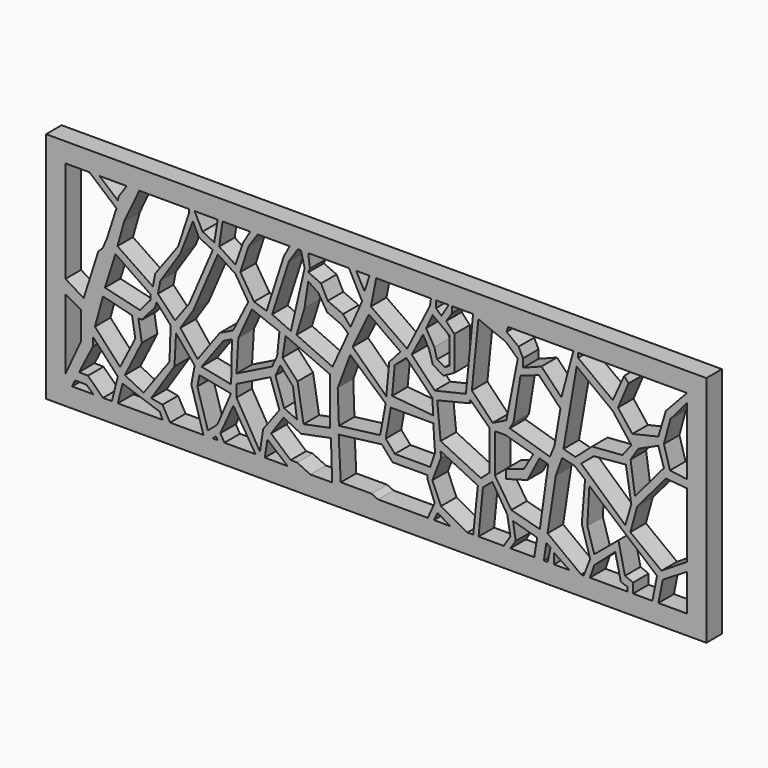
from build123d import *

# Parameters (mm, degrees)
F0_W     = 169.9999902
F0_H     = 60
F1_DEPTH = 5


with BuildPart() as f1:
    # F0 (on Front) → F1 (new body)
    with BuildSketch(Plane.XZ):
        with Locations((50.4281632602, -78.6471441388)):
            Rectangle(F0_W, F0_H)
        Polygon((-29.5718318398, -79.8125118017), (-29.5718318398, -53.6471441388), (-23.4234325655, -53.6471441388), (-20.8406914026, -53.6471441388), (-13.8210179284, -53.6471441388), (-10.5796195567, -53.6471441388), (2.1760948002, -53.6471441388), (3.6567950156, -53.6471441388), (9.6264071763, -53.6471441388), (10.8614871278, -53.6471441388), (17.9837327451, -53.6471441388), (19.9186392128, -53.6471441388), (28.1525924802, -53.6471441388), (30.2521493286, -53.6471441388), (31.078401953, -53.6471441388), (32.9280868173, -53.6471441388), (43.4104651213, -53.6471441388), (45.261785388, -53.6471441388), (48.6933588982, -53.6471441388), (50.4281632602, -53.6471441388), (64.5317584276, -53.6471441388), (65.8180117607, -53.6471441388), (69.1005662084, -53.6471441388), (69.9804276228, -53.6471441388), (75.3571093082, -53.6471441388), (84.3492706118, -53.6471441388), (101.1828333139, -53.6471441388), (102.3968681693, -53.6471441388), (114.1943708062, -53.6471441388), (121.9610720873, -53.6471441388), (130.4281583602, -53.6471441388), (130.4281583602, -55.9182605873), (130.4281583602, -73.1933414936), (130.4281583602, -75.2593576908), (130.4281583602, -91.9224396348), (130.4281583602, -94.1789895296), (130.4281583602, -103.6471441388), (123.0724677444, -103.6471441388), (121.5419247746, -103.6471441388), (116.5505573153, -103.6471441388), (115.1491105556, -103.6471441388), (105.4333895445, -103.6471441388), (103.8543581963, -103.6471441388), (103.1600013375, -103.6471441388), (100.197724998, -103.6471441388), (96.1916446686, -103.6471441388), (94.563215971, -103.6471441388), (93.5742780566, -103.6471441388), (91.1041945219, -103.6471441388), (84.9784016609, -103.6471441388), (83.248436451, -103.6471441388), (76.7731890082, -103.6471441388), (75.3986909986, -103.6471441388), (73.9043653011, -103.6471441388), (69.4875940681, -103.6471441388), (65.2708411217, -103.6471441388), (63.6990666389, -103.6471441388), (50.900469111, -103.6471441388), (39.0741452575, -103.6471441388), (33.4525555372, -103.6471441388), (27.5978185236, -103.6471441388), (21.7432044446, -103.6471441388), (19.3642415106, -103.6471441388), (11.3408863544, -103.6471441388), (9.5784887671, -103.6471441388), (8.3031100221, -103.6471441388), (5.9397411533, -103.6471441388), (-2.6583282743, -103.6471441388), (-4.5548658818, -103.6471441388), (-16.1091648042, -103.6471441388), (-17.6312867552, -103.6471441388), (-19.9144724756, -103.6471441388), (-22.4052201957, -103.6471441388), (-27.8710257262, -103.6471441388), (-29.5718318398, -103.6471441388), (-29.5718318398, -101.3329178095), (-29.5718318398, -83.3441913128), align=None, mode=Mode.SUBTRACT)
        Polygon((-20.8406914026, -53.6471441388), (-23.4234325655, -53.6471441388), (-16.459057347, -59.5439867183), (-18.8637768652, -67.0831030896), (-20.0139303927, -69.766394794), (-21.1233420798, -70.8263303515), (-24.9006729573, -82.6687663794), (-29.5718318398, -79.8125118017), (-29.5718318398, -83.3441913128), (-25.5878418684, -85.5581834912), (-25.5878418684, -92.6844924688), (-29.5718318398, -101.3329178095), (-29.5718318398, -103.6471441388), (-27.8710257262, -103.6471441388), (-27.1233409923, -102.0240738886), (-24.2040921003, -102.0240738886), (-22.4052201957, -103.6471441388), (-19.9144724756, -103.6471441388), (-23.7889681011, -99.8799800873), (-26.0721538216, -99.8107939959), (-22.5435942411, -92.8920507431), (-22.5435942411, -90.6088650227), (-16.1091648042, -97.5967943668), (-17.6312867552, -103.6471441388), (-16.1091648042, -103.6471441388), (-14.8818028536, -98.7684489112), (-5.315927323, -102.0247936249), (-4.5548658818, -103.6471441388), (-2.6583282743, -103.6471441388), (-4.5918649994, -100.2123728395), (-7.5127393939, -99.6775627136), (-1.5274614561, -90.5516371131), (-1.1139428243, -82.8929170966), (3.6858622916, -88.6817723513), (2.8131704312, -93.190677464), (5.9397411533, -103.6471441388), (8.3031100221, -103.6471441388), (9.1629787741, -102.9038660768), (9.5784887671, -103.6471441388), (11.3408863544, -103.6471441388), (10.2890441194, -101.8338128924), (13.6402621865, -94.4953784347), (19.3642415106, -103.6471441388), (21.7432044446, -103.6471441388), (22.4102440089, -99.3113974287), (27.5978185236, -103.6471441388), (33.4525555372, -103.6471441388), (30.0769433379, -102.0499616861), (28.3876396716, -102.0499616861), (23.3578998595, -97.6436287165), (26.5718307346, -92.9954051971), (31.0819428414, -95.2043831348), (38.7749262154, -93.6744585633), (39.0741452575, -103.6471441388), (50.900469111, -103.6471441388), (49.2179505527, -102.8787940741), (41.2949956954, -102.8787940741), (40.7622866333, -92.2343805432), (51.8797785044, -90.8383503556), (54.6441785991, -93.9999893308), (63.6500939727, -93.9999893308), (63.6500939727, -94.9714779854), (65.4739737511, -99.7416675091), (63.6990666389, -103.6471441388), (65.2708411217, -103.6471441388), (66.222395507, -101.6919396545), (69.4875940681, -103.6471441388), (73.9043653011, -103.6471441388), (67.1033039689, -99.8978465796), (64.8853778839, -94.7285443544), (67.1032079993, -88.8998143266), (67.0072436333, -87.4683484435), (76.5987560153, -92.136323452), (75.3986909986, -103.6471441388), (76.7731890082, -103.6471441388), (77.8958648443, -92.118665576), (80.3286209702, -90.0826901197), (84.1484293342, -96.2130874395), (84.9777460098, -100.9561643004), (83.248436451, -103.6471441388), (84.9784016609, -103.6471441388), (86.3345821361, -101.5367907338), (85.649587214, -97.2251370549), (91.8584614992, -98.9683642983), (91.1041945219, -103.6471441388), (93.5742780566, -103.6471441388), (94.2370146513, -99.3336811662), (95.2899232507, -100.1547724009), (94.563215971, -103.6471441388), (96.1916446686, -103.6471441388), (96.1916446686, -100.9742170572), (100.197724998, -103.6471441388), (103.1600013375, -103.6471441388), (94.5418700576, -97.1255600452), (96.6573804617, -83.3347067237), (98.3026996255, -78.808888793), (101.4789566398, -79.557210207), (104.1885092854, -81.7805677652), (103.3440455794, -92.176631093), (105.5042222142, -99.4034707546), (103.8543581963, -103.6471441388), (105.4333895445, -103.6471441388), (106.5607666969, -100.4205048084), (111.956961453, -95.6567004323), (113.4091317654, -102.0095869899), (115.1491105556, -102.5780215859), (115.1491105556, -103.6471441388), (116.5505573153, -103.6471441388), (116.5505573153, -101.139254868), (114.4641041756, -100.2830043435), (112.7924844623, -92.7567332983), (106.5646559, -97.9707911611), (104.7757714987, -92.1116098762), (105.2962690592, -82.8950107098), (122.7153167129, -97.593948245), (121.5419247746, -103.6471441388), (123.0724677444, -103.6471441388), (124.2046505213, -97.9692190886), (130.4281583602, -94.1789895296), (130.4281583602, -91.9224396348), (123.8727420568, -96.0621908307), (115.8528923988, -89.9298340082), (117.6159903407, -83.5287049413), (125.0115931034, -74.8061910272), (130.4281583602, -75.2593576908), (130.4281583602, -73.1933414936), (126.062810421, -72.6150964822), (124.490310611, -67.1364590526), (126.1495500803, -60.9645321965), (130.4281583602, -55.9182605873), (130.4281583602, -53.6471441388), (124.9729171395, -59.5029219985), (123.0785101652, -65.9252181649), (116.367392242, -67.5021782517), (112.6670986414, -62.7416744828), (115.388199687, -56.3621260226), (114.2545938492, -55.0257265568), (111.3281100988, -61.4884607494), (102.3968681693, -54.8023991287), (102.3968681693, -53.6471441388), (101.1828333139, -53.6471441388), (98.0905544002, -65.1495942838), (92.9671898484, -59.8271936178), (88.227622211, -61.656948179), (88.227622211, -59.5237798989), (87.0862752199, -57.2400689125), (84.0096394424, -54.9104812122), (84.3492706118, -53.6471441388), (75.3571093082, -53.6471441388), (73.5206604004, -72.3590925336), (65.4945075512, -74.220508337), (59.5615804195, -67.9835900664), (62.4707229435, -62.4984465539), (64.0613436699, -65.3645247221), (64.9926513433, -68.5263723135), (67.7642449737, -70.1020732522), (70.5199763179, -68.5880705714), (70.5199763179, -59.7687885165), (68.4439465404, -57.4877411127), (69.9804276228, -55.2046261728), (69.9804276228, -53.6471441388), (69.1005662084, -53.6471441388), (67.2055184841, -56.7332133651), (65.8180117607, -55.432356894), (65.8180117607, -53.6471441388), (64.5317584276, -53.6471441388), (64.2323344946, -55.4893612862), (58.3808124065, -67.0492500067), (49.0533709526, -60.5151094496), (50.4281632602, -53.6471441388), (48.6933588982, -53.6471441388), (47.4154017866, -57.6080717146), (45.261785388, -53.6471441388), (43.4104651213, -53.6471441388), (46.7848894975, -60.0549839437), (43.8162572682, -66.8531879783), (41.8904863921, -64.5638376759), (37.9401296377, -62.8388002515), (36.2263562737, -59.4501959919), (32.9280868173, -58.0099113286), (33.3472420383, -57.050040757), (32.9280868173, -53.6471441388), (31.078401953, -53.6471441388), (31.980831176, -57.4229061604), (28.451519087, -72.7732926607), (23.6205333304, -70.5700910055), (27.9316604137, -57.1507997811), (30.2521493286, -53.6471441388), (28.1525924802, -53.6471441388), (26.6289223852, -56.44542942), (22.1938285977, -70.2505931258), (18.9819447696, -69.2187324166), (15.4377464205, -63.657976687), (17.5742469728, -57.0726282895), (19.9186392128, -53.6471441388), (17.9837327451, -53.6471441388), (16.1742456257, -56.7009598017), (14.1606619582, -62.380682677), (10.0007522851, -59.6189387143), (10.8614871278, -53.6471441388), (9.6264071763, -53.6471441388), (8.7241791189, -59.1238625348), (5.7178474963, -57.6393119991), (3.6567950156, -53.6471441388), (2.1760948002, -53.6471441388), (2.1760948002, -54.7127537429), (-0.5796399782, -63.0543753505), (-6.4805815928, -71.1166784167), (-7.0697488263, -74.2281526327), (-16.2027403712, -68.0509656668), (-14.4418459386, -61.8254356086), (-10.5796195567, -53.6471441388), (-13.8210179284, -53.6471441388), (-15.837084502, -56.6222965717), (-16.1133444053, -57.6498608488), align=None)
        Polygon((9.5167132095, -100.1569852233), (7.0895068347, -102.2550836205), (4.3764557922, -93.1815873415), (4.9091354012, -90.4070213437), (13.0225143924, -91.9646817318), align=None, mode=Mode.SUBTRACT)
        Polygon((21.3211569935, -97.2839891911), (20.4894673079, -102.6899591088), (14.4474906847, -92.4161523581), (14.4474906847, -89.3095508218), (23.1802258641, -84.9554166198), (25.5040638149, -91.6578471661), align=None, mode=Mode.SUBTRACT)
        Polygon((-15.52118973, -95.2126772395), (-21.9900943339, -88.1873071194), (-19.9280562933, -80.6306904187), (-12.4422311783, -82.5139433146), (-11.6040449457, -87.5320023271), align=None, mode=Mode.SUBTRACT)
        Polygon((-6.4850398339, -78.6834731698), (-6.1461762525, -77.4632543325), (-2.5101066567, -81.5641880035), (-2.8037880547, -89.8994356394), (-9.463748981, -99.0913695034), (-14.2913740128, -96.6760516167), (-9.9176270887, -87.9340097308), (-10.8194090426, -82.6687663794), (-9.8594482988, -82.6687663794), align=None, mode=Mode.SUBTRACT)
        Polygon((24.4934006396, -84.1432713341), (25.7428064942, -81.4073458314), (28.9891473949, -85.1258859038), (30.0255181878, -92.3318109674), (26.7114415765, -90.8183827996), align=None, mode=Mode.SUBTRACT)
        Polygon((13.0673525855, -89.8493751884), (5.4598427378, -88.3327648044), (11.0583383222, -80.6711523581), (13.2875060663, -79.5596912503), align=None, mode=Mode.SUBTRACT)
        Polygon((23.6381343455, -82.3770268142), (14.4474906847, -86.9594737887), (14.9358500956, -78.7221459438), (18.4156820178, -71.1020752788), (25.5040638149, -73.834978044), (24.9247174576, -79.5596912503), align=None, mode=Mode.SUBTRACT)
        Polygon((26.3001210988, -79.5115157962), (27.0949248224, -74.3288621306), (38.5243641233, -79.3198570609), (38.5243641233, -91.4534908234), (31.714849174, -92.8077176213), (30.1613193005, -83.6376771331), align=None, mode=Mode.SUBTRACT)
        Polygon((51.4300028896, -88.8968195787), (40.8149585128, -90.2297571301), (40.5132882297, -81.7295238376), (43.7445193529, -73.1708705425), (52.8721511364, -81.2598764896), align=None, mode=Mode.SUBTRACT)
        Polygon((55.2222428048, -91.919682291), (52.8683327138, -89.2275199294), (54.1618056595, -81.7487165332), (56.7976497114, -81.7487165332), (65.1185140014, -81.7487165332), (65.557718277, -88.3001685143), (64.3552616239, -91.919682291), align=None, mode=Mode.SUBTRACT)
        Polygon((92.4643203616, -80.7814374566), (94.6959853172, -81.4156606793), (92.5461724401, -96.8485996127), (85.2249935269, -94.8749706149), (80.9681862593, -88.4147956967), (80.9681862593, -78.3817395568), (83.7431624532, -78.3817395568), (90.861722827, -80.4286375642), (88.4177461267, -84.5651477575), (83.7836116552, -86.0327929258), (83.883933723, -88.2780998945), (89.3507227302, -86.7413282394), align=None, mode=Mode.SUBTRACT)
        Polygon((77.3594139589, -90.2137589799), (67.0072436333, -85.175588727), (66.1248788238, -76.2261673808), (74.456974864, -74.1915181279), (74.6547579765, -73.3274519444), (79.5706659555, -78.0899524689), (79.5706659555, -88.2757753134), align=None, mode=Mode.SUBTRACT)
        Polygon((114.5444735885, -88.7837409973), (103.2036319375, -78.4999877214), (106.4081564546, -75.7753103971), (114.6987974644, -74.9918147922), (116.093210876, -83.5268050432), align=None, mode=Mode.SUBTRACT)
        Polygon((-10.3749902919, -80.6711523581), (-19.4257255644, -78.5053670406), (-16.7105048895, -69.992788136), (-7.6588141707, -76.2354210019), (-7.6588141707, -77.4632543325), align=None, mode=Mode.SUBTRACT)
        Polygon((4.8025798695, -59.2570279341), (8.3316378295, -60.9595924616), (2.2880480466, -75.0592008539), (-1.3742641445, -80.0711216891), (-5.786057096, -75.4533931613), (-5.1648044069, -72.3371109573), (0, -64.4621849724), (3.2259648744, -56.0949386201), align=None, mode=Mode.SUBTRACT)
        Polygon((10.1383920793, -79.1601286574), (4.4392524287, -86.9594737887), (0, -81.3162057005), (3.3322547097, -76.2354210019), (9.6473998825, -61.502277775), (14.1657171285, -64.4656357632), (17.4810811877, -69.766394794), (13.5867365113, -77.4407871082), align=None, mode=Mode.SUBTRACT)
        Polygon((31.9531038404, -66.4677992463), (32.9280868173, -60.0549839437), (35.5547741055, -61.8497543037), (37.7831057416, -65.4749503415), (41.6054353118, -67.1440809965), (43.2071514234, -68.5442421661), (39.1684781814, -77.3998877041), (29.901213944, -73.1734931469), align=None, mode=Mode.SUBTRACT)
        Polygon((55.1859114609, -71.7978014875), (58.1691116095, -69.183267653), (64.8551555387, -76.0575736314), (65.1185140014, -79.9859969599), (54.5144470424, -78.9969568109), align=None, mode=Mode.SUBTRACT)
        Polygon((53.0181817414, -79.6002785702), (44.3463772535, -71.1990892887), (48.5425628722, -62.4775998294), (56.6769239924, -68.2860368535), (53.7672266364, -71.5693384409), align=None, mode=Mode.SUBTRACT)
        Polygon((85.7570916414, -74.9002546072), (87.5671878457, -63.6405944824), (92.3094898462, -62.0092973113), (97.8502135087, -67.7652709518), (96.3003182784, -76.7751909409), (95.1542705297, -79.5754566789), (84.7964733839, -76.4866471291), align=None, mode=Mode.SUBTRACT)
        Polygon((83.9379355311, -74.9644339085), (80.4195851088, -76.6785632632), (75.042873621, -71.0836574435), (76.7288655043, -54.3665289879), (83.7767093364, -57.2240328684), (86.8765041232, -60.0348934531), align=None, mode=Mode.SUBTRACT)
        Polygon((117.9258450866, -70.3323036432), (123.0515763164, -68.0069103837), (124.490310611, -72.6150964822), (117.0463263988, -81.3946723938), (115.9057021141, -73.4553486109), align=None, mode=Mode.SUBTRACT)
        Polygon((98.6280304443, -76.6785632632), (102.0328551531, -56.885484606), (111.3594248891, -63.9474391937), (116.1178052425, -70.148229599), (113.8221174479, -73.1248185039), (105.9737205505, -73.7345591187), (101.7028465867, -77.5051862001), align=None, mode=Mode.SUBTRACT)
        Polygon((63.2701739669, -60.8003586531), (64.949862659, -57.2796836495), (69.2923069, -60.4839026928), (69.2923069, -67.3658624291), (68.1006163359, -68.0795833468), (66.0859495401, -66.9897869229), (65.3730630875, -64.4022673368), align=None, mode=Mode.SUBTRACT)
    extrude(amount=F1_DEPTH)


solid = f1.part
